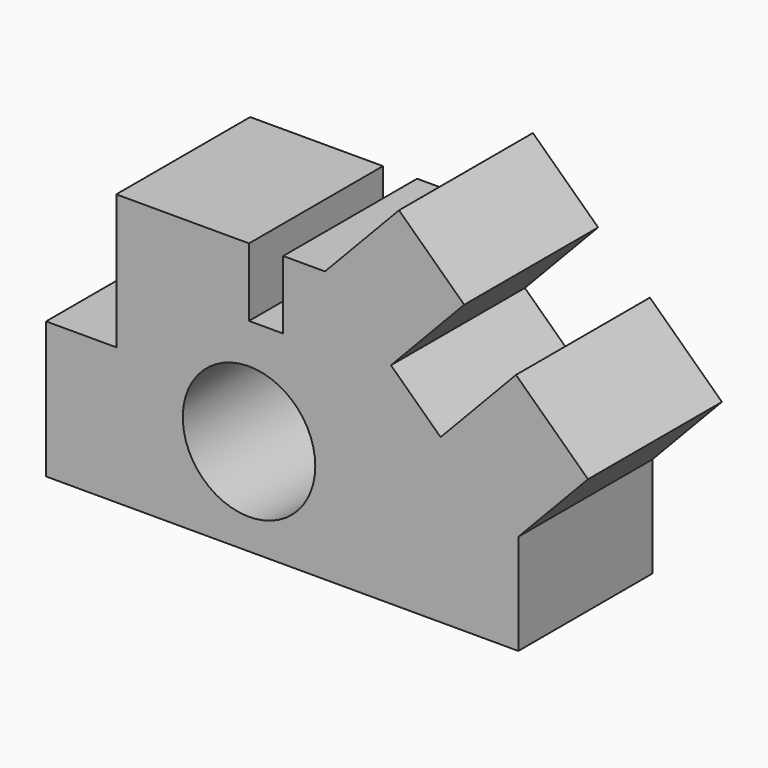
from build123d import *

# Parameters (mm, degrees)
F0_R     = 9.894314
F1_DEPTH = 25


with BuildPart() as f1:
    # F0 (on Front) → F1 (new body)
    with BuildSketch(Plane.XZ):
        Polygon((-40.083185, -34.417719), (-40.083185, -54.813404), (30.451886, -54.813404), (30.451886, -39.799914), (40.855581, -28.848659), (30.097892, -18.628852), (18.838422, -30.480923), (11.423437, -23.436685), (22.364641, -11.919632), (12.626884, -2.668761), (1.572163, -14.305307), (-4.674011, -14.305307), (-4.674011, -24.503149), (-9.772932, -24.503149), (-9.772932, -14.305307), (-29.602069, -14.305307), (-29.602069, -34.417719), align=None)
        with Locations((-9.772932, -40.36646)):
            Circle(F0_R, mode=Mode.SUBTRACT)
    extrude(amount=F1_DEPTH)


solid = f1.part
